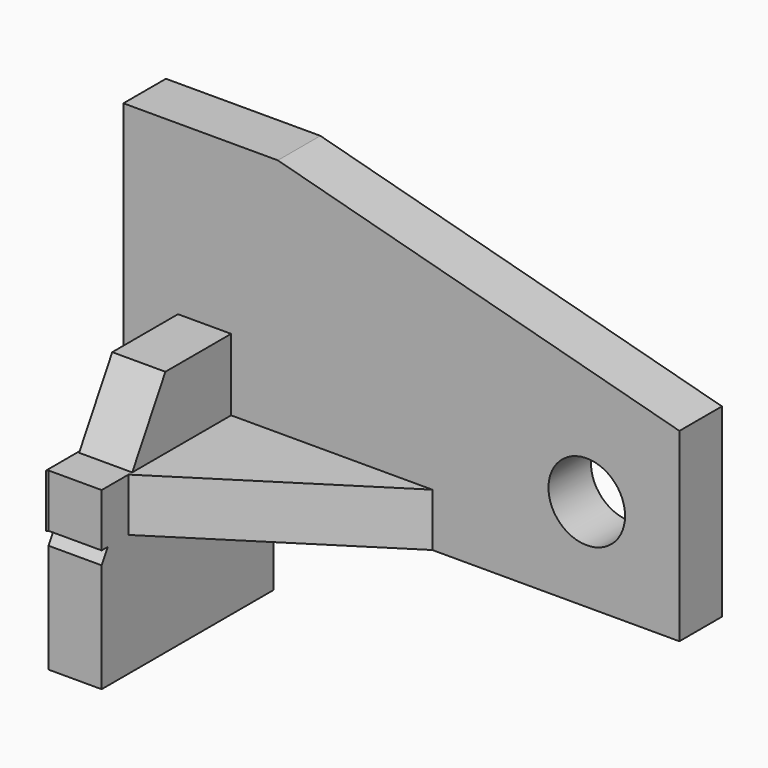
from build123d import *

# Parameters (mm, degrees)
F0_R     = 7.874
F1_DEPTH = 10.922
F3_DEPTH = 10.922
F4_W     = 10.922
F4_H     = 50.8
F5_DEPTH = 44.45
F7_DEPTH = 25.4
F8_DEPTH = 0.254


with BuildPart() as f1:
    # F0 (on Front) → F1 (new body)
    with BuildSketch(Plane.XZ):
        Polygon((-95.0245559216, 40.9277565777), (-95.0245559216, -19.2702434223), (19.2754440784, -19.2702434223), (19.2754440784, 18.8085507425), (-63.2745559216, 40.9277565777), align=None)
        with Locations((0.2254440784, -0.2202434223)):
            Circle(F0_R, mode=Mode.SUBTRACT)
    extrude(amount=F1_DEPTH)

    # F2 (on face) → F3 (join)
    with BuildSketch(Plane(origin=(0, 0, -19.2702434223), x_dir=(1, 0, 0), z_dir=(0, 0, -1))):
        Polygon((-31.5245559216, 10.922), (-84.1025559216, 44.45), (-84.1025559216, 10.922), align=None)
    extrude(amount=-F3_DEPTH)

    # F4 (on Front) → F5 (join)
    with BuildSketch(Plane.XZ):
        with Locations((-78.3454434941, -18.9951797947)):
            Rectangle(F4_W, F4_H)
    extrude(amount=F5_DEPTH)

    # F6 (on face) → F7 (cut)
    with BuildSketch(Plane(origin=(-83.8064434941, 0, 0), x_dir=(0, -1, 0), z_dir=(-1, 0, 0))):
        Polygon((44.45, 6.4048202053), (27.814247327, 6.4048202053), (36.3319325837, -8.3482434223), (44.261174684, -8.3482434223), (44.261174684, -19.2702434223), (42.6377522238, -19.2702434223), (44.3853547532, -22.2971797947), align=None)
    extrude(amount=-F7_DEPTH, mode=Mode.SUBTRACT)

    # F8 (cut): a face of the model
    f8_faces = [f1.faces().sort_by_distance(p)[0] for p in [
        (-78.3454434941, -44.45, -18.9951797947),
    ]]
    extrude(f8_faces, amount=-F8_DEPTH, mode=Mode.SUBTRACT)


solid = f1.part
